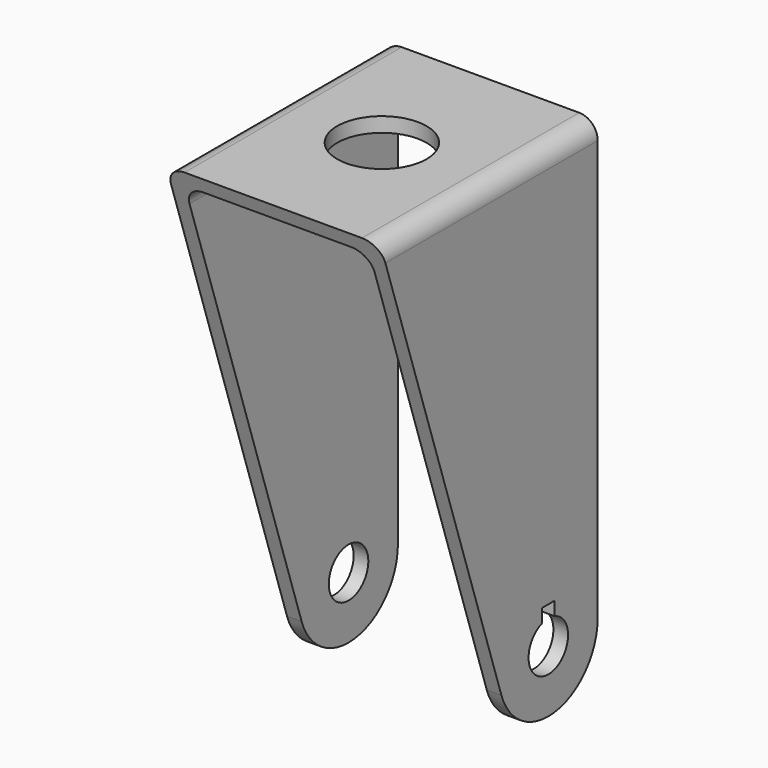
from build123d import *

# Parameters (mm, degrees)
F1_DEPTH  = 44
F3_DEPTH  = 45.2
F4_DEPTH  = 52
F5_R      = 4
F6_DEPTH  = 57.3
F7_R      = 7.25
F8_DEPTH  = 25
F9_R      = 3
F10_R     = 3
F11_R     = 3
F12_R     = 3
F14_DEPTH = 25
F15_DEPTH = 25
F17_DEPTH = 25
F18_DEPTH = 25
F19_DEPTH = 25
F21_DEPTH = 25


with BuildPart() as f1:
    # F0 (on Front) → F1 (new body)
    with BuildSketch(Plane.XZ):
        Polygon((-81.5560135724, 81.1066666667), (-81.5560135724, 0), (-79.1760135724, 0), (-79.1760135724, 78.7266666667), (-49.1760135724, 78.7266666667), (-49.1760135724, 0), (-46.7960135724, 0), (-46.7960135724, 81.1066666667), align=None)
    extrude(amount=F1_DEPTH)

    # F2 (on face) → F3 (cut)
    with BuildSketch(Plane.YZ.offset(-46.7960135724)):
        with BuildLine():
            ThreePointArc((-10.0000000069, 0), (-15.8590620568, 1.8962112679), (-19.4961202132, 6.8657216307))
            Line((-19.4961202132, 6.8657216307), (-44, 81.1066666667))
            Line((-44, 81.1066666667), (-44, 0))
            Line((-44, 0), (-10.0000000069, 0))
        make_face()
    extrude(amount=-F3_DEPTH, mode=Mode.SUBTRACT)

    # F2 (on face) → F4 (cut)
    with BuildSketch(Plane.YZ.offset(-46.7960135724)):
        with BuildLine():
            ThreePointArc((0, 10.0000000432), (-2.9289321753, 2.928932201), (-10.0000000069, 0))
            Line((-10.0000000069, 0), (0, 0))
            Line((0, 0), (0, 10.0000000432))
        make_face()
    extrude(amount=-F4_DEPTH, mode=Mode.SUBTRACT)

    # F5 (on face) → F6 (cut)
    with BuildSketch(Plane(origin=(-81.5560135724, 0, 0), x_dir=(0, -1, 0), z_dir=(-1, 0, 0))):
        with Locations((10, 10)):
            Circle(F5_R)
    extrude(amount=-F6_DEPTH, mode=Mode.SUBTRACT)

    # F7 (on face) → F8 (cut)
    with BuildSketch(Plane.XY.offset(81.1066666667)):
        with Locations((-64.1760135724, -22)):
            Circle(F7_R)
    extrude(amount=-F8_DEPTH, mode=Mode.SUBTRACT)

    # F9
    f9_edges = [f1.edges().sort_by_distance(p)[0] for p in [
        (-81.556014, -22, 81.106667),
    ]]
    fillet(f9_edges, radius=F9_R)

    # F10
    f10_edges = [f1.edges().sort_by_distance(p)[0] for p in [
        (-46.796014, -22, 81.106667),
    ]]
    fillet(f10_edges, radius=F10_R)

    # F11
    f11_edges = [f1.edges().sort_by_distance(p)[0] for p in [
        (-49.176014, -21.60723, 78.726667),
    ]]
    fillet(f11_edges, radius=F11_R)

    # F12
    f12_edges = [f1.edges().sort_by_distance(p)[0] for p in [
        (-79.176014, -21.60723, 78.726667),
    ]]
    fillet(f12_edges, radius=F12_R)

    # F13 (on face) → F14 (cut)
    with BuildSketch(Plane.YZ.offset(-46.7960135724)):
        Polygon((-11.25, 16), (-11.25, 14), (-11.25, 13.495109044), (-10, 13.5341417044), (-8.75, 13.5731743649), (-8.75, 14), (-8.75, 16), align=None)
    extrude(amount=-F14_DEPTH, mode=Mode.SUBTRACT)

    # F13 (on face) → F15 (cut)
    with BuildSketch(Plane.YZ.offset(-46.7960135724)):
        Polygon((-11.25, 16), (-11.25, 14), (-11.25, 13.495109044), (-10, 13.5341417044), (-8.75, 13.5731743649), (-8.75, 14), (-8.75, 16), align=None)
    extrude(amount=-F15_DEPTH, mode=Mode.SUBTRACT)

    # F13 (on face) → F18 (cut)
    with BuildSketch(Plane.YZ.offset(-46.7960135724)):
        Polygon((-11.25, 16), (-11.25, 14), (-11.25, 13.495109044), (-10, 13.5341417044), (-8.75, 13.5731743649), (-8.75, 14), (-8.75, 16), align=None)
    extrude(amount=-F18_DEPTH, mode=Mode.SUBTRACT)

    # F13 (on face) → F21 (cut)
    with BuildSketch(Plane.YZ.offset(-46.7960135724)):
        Polygon((-11.25, 16), (-11.25, 14), (-11.25, 13.495109044), (-10, 13.5341417044), (-8.75, 13.5731743649), (-8.75, 14), (-8.75, 16), align=None)
    extrude(amount=-F21_DEPTH, mode=Mode.SUBTRACT)


with BuildPart() as f17:
    # F5 (on face) → F17 (new body)
    with BuildSketch(Plane(origin=(-81.5560135724, 0, 0), x_dir=(0, -1, 0), z_dir=(-1, 0, 0))):
        with Locations((10, 10)):
            Circle(F5_R)
    extrude(amount=F17_DEPTH)

    # F19 (cut): a face of the model
    f19_faces = [f17.faces().sort_by_distance(p)[0] for p in [
        (-106.5560135724, -10, 10),
    ]]
    extrude(f19_faces, amount=-F19_DEPTH, mode=Mode.SUBTRACT)


solid = f1.part
